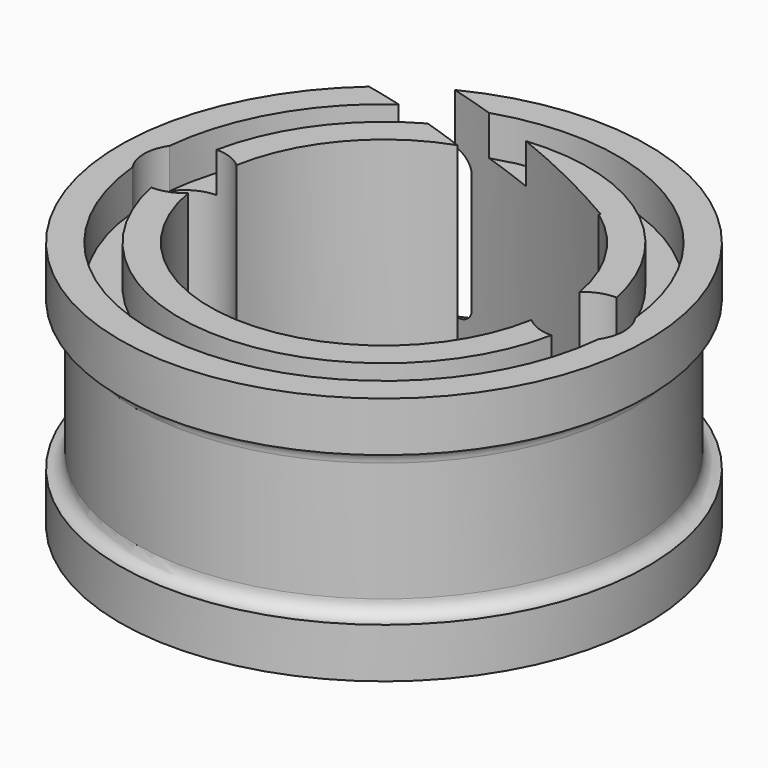
from build123d import *

# Parameters (mm, degrees)
SKETCH001_R  = 4.1
POCKET_DEPTH = 25.001


with BuildPart() as part:
    # Sketch → Revolution (revolve)
    with BuildSketch(Plane.XZ):
        with BuildLine():
            Line((-17.5, 0), (-17.5, 25))
            Line((-17.5, 25), (-20.5, 25))
            Line((-20.5, 25), (-20.5, 21))
            Line((-20.5, 21), (-23.5, 21))
            Line((-23.5, 21), (-23.5, 25))
            Line((-23.5, 25), (-26.5, 25))
            Line((-26.5, 25), (-26.5, 20))
            ThreePointArc((-25, 18.5), (-25.43934, 19.56066), (-26.5, 20))
            Line((-25, 18.5), (-25, 6.5))
            ThreePointArc((-26.5, 5), (-25.43934, 5.43934), (-25, 6.5))
            Line((-26.5, 0), (-26.5, 5))
            Line((-23.5, 0), (-26.5, 0))
            Line((-23.5, 4), (-23.5, 0))
            Line((-20.5, 4), (-23.5, 4))
            Line((-20.5, 0), (-20.5, 4))
            Line((-17.5, 0), (-20.5, 0))
        make_face()
    revolve(axis=Axis((0, 0, 0), (0, 0, 1)))

    # Sketch001 (on Face1 of Revolution) → Pocket (cut, through all)
    with BuildSketch(Plane(origin=(0, 0, 0), x_dir=(1, 0, 0), z_dir=(0, 0, -1))):
        with Locations((20, 0)):
            Circle(SKETCH001_R)
        with Locations((-20, 0)):
            Circle(SKETCH001_R)
        with BuildLine():
            ThreePointArc((-20.070435, -20.480395), (-5.721449, -16.464083), (7.731739, -10.058157))
            Line((10.26, -14.371844), (7.731739, -10.058157))
            ThreePointArc((-19.14, -25.393062), (-3.96636, -21.145927), (10.26, -14.371844))
            Line((-20.070435, -20.480395), (-19.14, -25.393062))
        make_face()
    extrude(amount=-POCKET_DEPTH, mode=Mode.SUBTRACT)


solid = part.part
